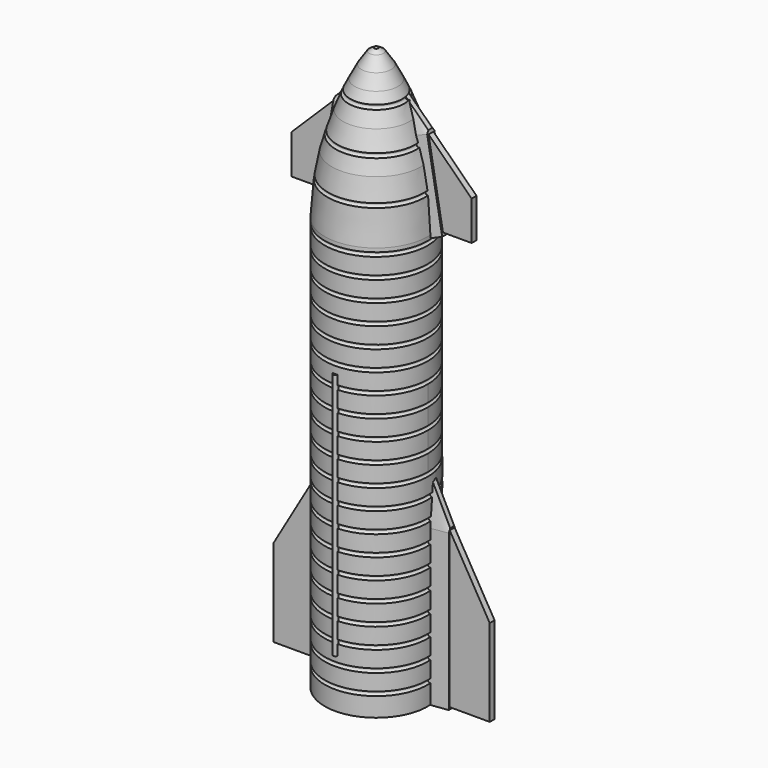
from build123d import *

# Parameters (mm, degrees)
TORUS001_R               = 0.4
TORUS_R                  = 0.4
ARRAY_Z_COUNT            = 20
ARRAY_Z_PITCH            = 4.03
TORUS002_R               = 0.4
BOX001_W                 = 13.5
BOX001_H                 = 13.5
BOX001_DEPTH             = 13.5
BOX001_PLACEMENT_ANGLE   = 45
TORUS003_R               = 0.4
SKETCH011_W              = 2
SKETCH011_H              = 1.25
SKETCH011_W_2            = 1.25
SKETCH011_H_2            = 2
EXTRUDE003_DEPTH         = 13.5
ARRAY004_COUNT           = 4
ARRAY004_PLACEMENT_ANGLE = 45
CYLINDER_R               = 0.5
CYLINDER_DEPTH           = 49
EXTRUDE001_DEPTH         = 1.2
LOFT001_PLACEMENT_ANGLE  = 90
LOFT_PLACEMENT_ANGLE     = 90
COMPOUND_PLACEMENT_ANGLE = 350
EXTRUDE_DEPTH            = 1.2
ARRAY001_COUNT           = 3
ARRAY001_PLACEMENT_ANGLE = 30
ARRAY002_COUNT           = 3
ARRAY002_PLACEMENT_ANGLE = 330


with BuildPart() as ring3:
    # Torus001 → Torus001 (revolve)
    with BuildSketch(Plane(origin=(0, 0, 35.2), x_dir=(1, 0, 0), z_dir=(0, -1, 0))):
        with Locations((9.6, 0)):
            Circle(TORUS001_R)
    revolve(axis=Axis((0, 0, 35.2), (0, 0, 1)))


with BuildPart() as rings:
    # Torus → Torus (revolve)
    with BuildSketch(Plane(origin=(0, 0, -49.6), x_dir=(1, 0, 0), z_dir=(0, -1, 0))):
        with Locations((10.2, 0)):
            Circle(TORUS_R)
    revolve(axis=Axis((0, 0, -49.6), (0, 0, 1)))

    # Array Z: rings ×20


with BuildPart() as rings_1:
    add(rings.part)
    with Locations(*[(0, 0, i * ARRAY_Z_PITCH) for i in range(1, ARRAY_Z_COUNT)]):
        add(rings.part)


with BuildPart() as ring2:
    # Torus002 → Torus002 (revolve)
    with BuildSketch(Plane(origin=(0, 0, 43), x_dir=(1, 0, 0), z_dir=(0, -1, 0))):
        with Locations((7.9, 0)):
            Circle(TORUS002_R)
    revolve(axis=Axis((0, 0, 43), (0, 0, 1)))


with BuildPart() as sub_magnet:
    # Box001 → Box001 (new body)
    with BuildSketch(Plane.XY):
        with Locations((6.75, 6.75)):
            Rectangle(BOX001_W, BOX001_H)
    extrude(amount=BOX001_DEPTH)


with BuildPart() as sub_magnet_1:
    # Box001 placement: moved
    add(sub_magnet.part.moved(Location((0, -9.55, -7.25))).rotate(Axis((0, -9.55, -7.25), (0, 0, 1)), BOX001_PLACEMENT_ANGLE))


with BuildPart() as rings001:
    # Torus003 → Torus003 (revolve)
    with BuildSketch(Plane(origin=(0, 0, 50.1), x_dir=(1, 0, 0), z_dir=(0, -1, 0))):
        with Locations((5.3, 0)):
            Circle(TORUS003_R)
    revolve(axis=Axis((0, 0, 50.1), (0, 0, 1)))

    # Fusion: union ring3, rings, ring2, sub magnet
    add(ring3.part)
    add(rings_1.part)
    add(ring2.part)
    add(sub_magnet_1.part)


with BuildPart() as magnet_support:
    # Sketch011 → Extrude003 (new body)
    with BuildSketch(Plane(origin=(0, 0, -60), x_dir=(1, 0, 0), z_dir=(0, 0, -1))):
        with Locations((-5, 7.375)):
            Rectangle(SKETCH011_W, SKETCH011_H)
        with Locations((-7.375, 5)):
            Rectangle(SKETCH011_W_2, SKETCH011_H_2)
    extrude(amount=EXTRUDE003_DEPTH)

    # Array004: magnet support ×4 about axis
    array004_axis = Axis((0, 0, 0), (0, 0, 1))


with BuildPart() as magnet_support_1:
    add(magnet_support.part)
    for i in range(1, ARRAY004_COUNT):
        add(magnet_support.part.rotate(array004_axis, i * 360 / ARRAY004_COUNT))


with BuildPart() as magnet_support_2:
    # Array004 placement: moved
    add(magnet_support_1.part.moved(Location((0, 0, 66.25))).rotate(Axis((0, 0, 66.25), (0, 0, 1)), ARRAY004_PLACEMENT_ANGLE))


with BuildPart() as fuse002:
    # fuse001 → Revolve007 (revolve)
    with BuildSketch(Plane.XZ):
        Polygon((10.2, -53.776791), (10.2, 25.30489), (10.2, 28.113663), (9.644593, 35.140766), (8.783205, 39.810387), (7.918575, 42.9067), (6.55849, 46.986958), (5.379752, 50.024483), (4.246347, 52.336617), (2.931601, 54.875446), (1.390172, 57.187592), (0.452917, 57.776951), (0, 57.776951), (0, 56.576951), (0.106983, 56.576951), (0.534094, 56.308377), (1.896436, 54.264863), (3.174668, 51.796544), (4.279626, 49.542441), (5.429259, 46.579919), (6.770772, 42.555375), (7.612906, 39.539624), (8.453223, 34.984228), (9, 28.066314), (9, 25.30489), (9, -53.776791), align=None)
    revolve(axis=Axis((0, 0, 0), (0, 0, 1)))

    # Fusion005: union magnet support
    add(magnet_support_2.part)

    # Cut: cut rings001
    add(rings001.part, mode=Mode.SUBTRACT)


with BuildPart() as pipe:
    # Cylinder → Cylinder (new body)
    with BuildSketch(Plane(origin=(0, -10.1, -44), x_dir=(1, 0, 0), z_dir=(0, 0, 1))):
        Circle(CYLINDER_R)
    extrude(amount=CYLINDER_DEPTH)


with BuildPart() as bulkhead002:
    # bulkhead → Revolve (revolve)
    with BuildSketch(Plane.XZ):
        Polygon((10.156334, -38.998383), (9.769288, -40.628052), (8.913713, -41.952164), (7.732203, -42.950336), (2.558004, -46.43375), (0, -46.43375), (0, -45.63375), (2.313805, -45.63375), (7.249246, -42.311075), (8.306431, -41.417935), (9.022717, -40.309391), (9.377985, -38.813525), align=None)
    revolve(axis=Axis((0, 0, 0), (0, 0, 1)))


with BuildPart() as wing:
    # Sketch003 → Extrude001 (new body)
    with BuildSketch(Plane.XZ):
        Polygon((11.69425, -21.991915), (13.178512, -21.991915), (21.41898, -36.138252), (21.41898, -53.369263), (11.69425, -53.369263), align=None)
    extrude(amount=EXTRUDE001_DEPTH)


with BuildPart() as wing_1:
    # Extrude001 placement: moved
    add(wing.part.moved(Location((0, 2.5, 0))))


with BuildPart() as wing001:
    # Sketch006 → Loft001 section 0
    with BuildSketch(Plane.XZ.offset(19)):
        Polygon((1, -53.795803), (5.166792, -53.795803), (5.166792, -23.02013), (2.942247, -12.003428), (1.953201, -12.003428), (1, -23.02013), align=None)
    # Sketch007 → Loft001 section 1
    with BuildSketch(Plane.XZ.offset(24)):
        Polygon((1.662147, -53.786064), (3.304937, -53.786064), (3.304937, -22.929459), (2.999428, -22.214031), (2.012961, -22.214031), (1.662147, -22.929459), align=None)
    loft()


with BuildPart() as wing001_1:
    # Loft001 placement: moved
    add(wing001.part.moved(Location((-10.5, -0.6, 0))).rotate(Axis((-10.5, -0.6, 0), (0, 0, 1)), LOFT001_PLACEMENT_ANGLE))


with BuildPart() as compound:
    # Sketch004 → Loft section 0
    with BuildSketch(Plane.XZ.offset(20)):
        Polygon((0.961528, 28.013737), (5.053557, 28.013737), (5.053557, 45.325695), (2.976268, 52.054703), (2.011954, 52.054703), (0.961528, 45.325695), align=None)
    # Sketch005 → Loft section 1
    with BuildSketch(Plane.XZ.offset(24)):
        Polygon((1.583913, 28.792999), (3.353983, 28.792999), (3.353983, 45.946594), (3, 46.493607), (1.979884, 46.493607), (1.583913, 45.946594), align=None)
    loft()


with BuildPart() as compound_1:
    # Loft placement: moved
    add(compound.part.moved(Location((-7, -0.6, -3))).rotate(Axis((-7, -0.6, -3), (0, 0, 1)), LOFT_PLACEMENT_ANGLE))


with BuildPart() as compound_2:
    # Compound placement: moved
    add(compound_1.part.rotate(Axis((0, 0, 0), (0, 1, 0)), COMPOUND_PLACEMENT_ANGLE))


with BuildPart() as right:
    # Sketch002 → Extrude (new body)
    with BuildSketch(Plane.XZ):
        Polygon((9.20478, 45.205303), (17.835482, 36.696159), (17.835482, 28.94676), (12.091809, 28.94676), (11.028169, 28.703648), (7.9588, 45.600365), align=None)
    extrude(amount=EXTRUDE_DEPTH)


with BuildPart() as right_1:
    # Extrude placement: moved
    add(right.part.moved(Location((0, 2.5, 0))))

    # Fusion002: union wing, wing001, Compound
    add(wing_1.part)
    add(wing001_1.part)
    add(compound_2.part)


with BuildPart() as right001:
    # Body base: copy of right
    add(right_1.part)


with BuildPart() as part_mirroring:
    # Part__Mirroring: instance of right001
    add(right001.part.mirror(Plane(origin=(0, 2.46416, -1.614462), x_dir=(0, -1, 0), z_dir=(1, 0, 0))))


with BuildPart() as engines001:
    # Sketch008 → Revolve003 (revolve)
    with BuildSketch(Plane.XZ):
        Polygon((3.515284, -45.777809), (3.515284, -53.79528), (2.715284, -53.79528), (2.715284, -52.56041), (2.477541, -51.068432), (2, -50.205555), (2, -45.777809), align=None)
    revolve(axis=Axis((2, 0, 0), (0, 0, 1)))

    # Array001: engines001 ×3 about axis
    array001_axis = Axis((0, 0, 0), (0, 0, 1))


with BuildPart() as engines001_1:
    add(engines001.part)
    for i in range(1, ARRAY001_COUNT):
        add(engines001.part.rotate(array001_axis, i * 360 / ARRAY001_COUNT))


with BuildPart() as engines001_2:
    # Array001 placement: moved
    add(engines001_1.part.rotate(Axis((0, 0, 0), (0, 0, 1)), ARRAY001_PLACEMENT_ANGLE))


with BuildPart() as fusion006:
    # Sketch009 → Revolve004 (revolve)
    with BuildSketch(Plane.XZ):
        Polygon((8.62735, -42.003544), (8.62735, -47.377693), (8.927623, -49.432465), (9.20222, -50.759689), (9.522583, -51.867229), (9.810002, -52.925655), (9.810002, -53.789402), (9.010002, -53.789402), (9.010002, -52.974762), (8.643873, -51.912991), (8.268592, -50.80545), (7.993995, -49.478241), (7.62735, -47.45887), (7.62735, -42.003544), align=None)
    revolve(axis=Axis((7, 0, 0), (0, 0, 1)))


with BuildPart() as fusion006_1:
    # Revolve004 placement: moved
    add(fusion006.part.moved(Location((-1, 0, 0))))

    # Array002: Fusion006 ×3 about axis
    array002_axis = Axis((0, 0, 0), (0, 0, 1))


with BuildPart() as fusion006_2:
    add(fusion006_1.part)
    for i in range(1, ARRAY002_COUNT):
        add(fusion006_1.part.rotate(array002_axis, i * 360 / ARRAY002_COUNT))


with BuildPart() as fusion006_3:
    # Array002 placement: moved
    add(fusion006_2.part.rotate(Axis((0, 0, 0), (0, 0, 1)), ARRAY002_PLACEMENT_ANGLE))

    # Fusion006: union fuse002, pipe, bulkhead002, Part__Mirroring, right, engines001
    add(fuse002.part)
    add(pipe.part)
    add(bulkhead002.part)
    add(part_mirroring.part)
    add(right_1.part)
    add(engines001_2.part)


solid = fusion006_3.part
